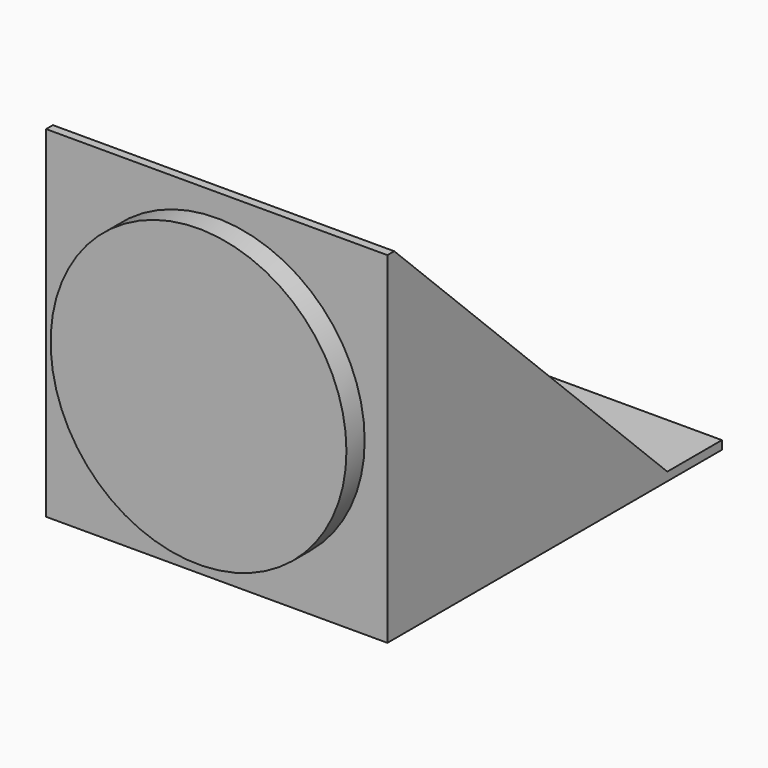
from build123d import *

# Parameters (mm, degrees)
F0_W     = 762
F0_H     = 762
F1_DEPTH = 19.05
F2_W     = 762
F2_H     = 914.4
F3_DEPTH = 19.05
F5_DEPTH = 19.05
F7_DEPTH = 19.05
F8_R     = 330.2
F9_DEPTH = 50.8


with BuildPart() as f1:
    # F0 (on Front) → F1 (new body)
    with BuildSketch(Plane.XZ):
        Rectangle(F0_W, F0_H)
    extrude(amount=F1_DEPTH)

    # F2 (on face) → F3 (join)
    with BuildSketch(Plane(origin=(0, 0, -381), x_dir=(1, 0, 0), z_dir=(0, 0, -1))):
        with Locations((0, -457.2)):
            Rectangle(F2_W, F2_H)
    extrude(amount=-F3_DEPTH)

    # F4 (on face) → F5 (join)
    with BuildSketch(Plane(origin=(-381, 0, 0), x_dir=(0, -1, 0), z_dir=(-1, 0, 0))):
        Polygon((0, 273.05), (0, 381), (-762, -361.95), (-635, -361.95), (0, 257.175), align=None)
        Polygon((0, -361.95), (0, 257.175), (-635, -361.95), align=None)
    extrude(amount=-F5_DEPTH)

    # F6 (on face) → F7 (join)
    with BuildSketch(Plane.YZ.offset(381)):
        Polygon((0, 381), (0, -361.95), (762, -361.95), align=None)
    extrude(amount=-F7_DEPTH)

    # F8 (on face) → F9 (join)
    with BuildSketch(Plane.XZ.offset(19.05)):
        Circle(F8_R)
    extrude(amount=F9_DEPTH)


solid = f1.part
